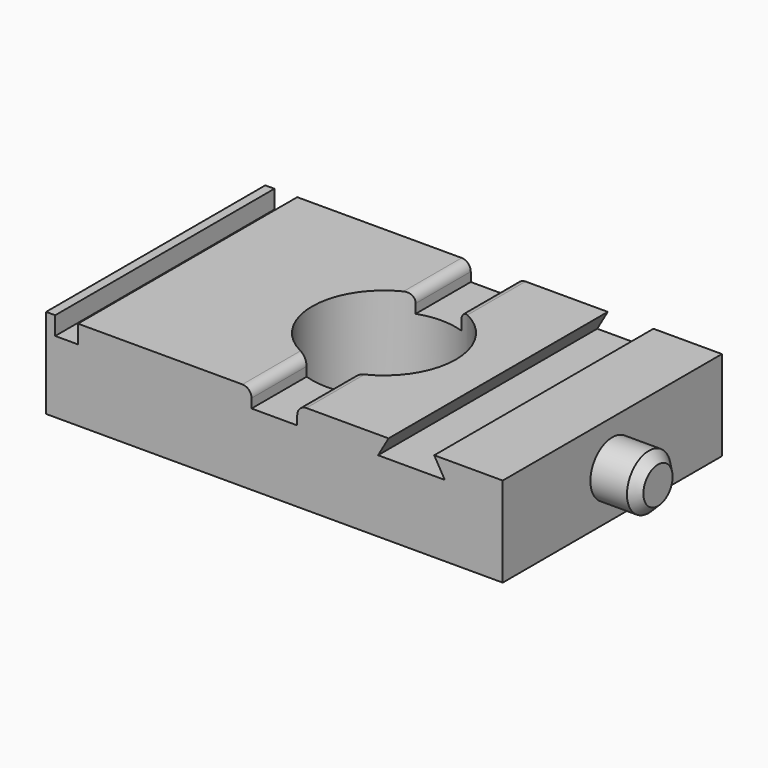
from build123d import *

# Parameters (mm, degrees)
F0_W     = 127
F0_H     = 76.2
F0_R     = 20
F1_DEPTH = 25
F2_W     = 6.35
F2_H     = 76.2
F3_DEPTH = 5.08
F5_DEPTH = 76.201
F6_R     = 7.62
F7_DEPTH = 12.7
F8_R     = 2.54
F9_SIZE  = 2.54


with BuildPart() as f1:
    # F0 (on Top) → F1 (new body)
    with BuildSketch(Plane.XY):
        Rectangle(F0_W, F0_H)
        Circle(F0_R, mode=Mode.SUBTRACT)
    extrude(amount=F1_DEPTH)

    # F2 (on face) → F3 (cut)
    with BuildSketch(Plane.XY.offset(25)):
        with Locations((-57.785, 0)):
            Rectangle(F2_W, F2_H)
        with BuildLine():
            Line((-6.35, -18.9651654356), (-6.35, -38.1))
            Line((-6.35, -38.1), (6.35, -38.1))
            Line((6.35, -38.1), (6.35, -18.9651654356))
            ThreePointArc((6.35, -18.9651654356), (0, -20), (-6.35, -18.9651654356))
        make_face()
        with BuildLine():
            Line((6.35, 38.1), (-6.35, 38.1))
            Line((-6.35, 38.1), (-6.35, 18.9651654356))
            ThreePointArc((-6.35, 18.9651654356), (0, 20), (6.35, 18.9651654356))
            Line((6.35, 18.9651654356), (6.35, 38.1))
        make_face()
    extrude(amount=-F3_DEPTH, mode=Mode.SUBTRACT)

    # F4 (on face) → F5 (cut, through all)
    with BuildSketch(Plane.XZ.offset(38.1)):
        Polygon((44.45, 25), (31.75, 25), (28.8170606325, 19.92), (47.3829393675, 19.92), align=None)
    extrude(amount=-F5_DEPTH, mode=Mode.SUBTRACT)

    # F6 (on face) → F7 (join)
    with BuildSketch(Plane.YZ.offset(63.5)):
        with Locations((0, 12.5)):
            Circle(F6_R)
    extrude(amount=F7_DEPTH)

    # F8
    f8_edges = [f1.edges().sort_by_distance(p)[0] for p in [
        (-6.35, -28.532583, 25),
        (-6.35, 28.532583, 25),
        (6.35, 28.532583, 25),
        (6.35, -28.532583, 25),
    ]]
    fillet(f8_edges, radius=F8_R)

    # F9
    f9_edges = [f1.edges().sort_by_distance(p)[0] for p in [
        (76.2, -7.62, 12.5),
    ]]
    chamfer(f9_edges, length=F9_SIZE)


solid = f1.part
